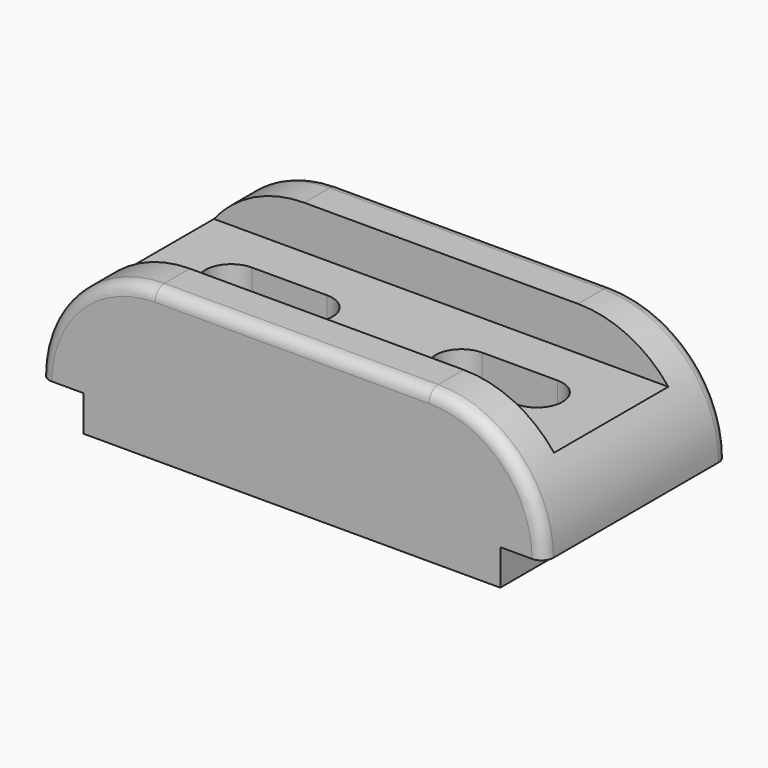
from build123d import *

# Parameters (mm, degrees)
F1_DEPTH = 58
F3_W     = 36
F3_H     = 11
F4_DEPTH = 138.501
F6_DEPTH = 27.001
F7_R     = 3


with BuildPart() as f1:
    # F0 (on Front) → F1 (new body)
    with BuildSketch(Plane.XZ):
        with BuildLine():
            Line((-52.5, 9), (-52.5, 0))
            Line((-52.5, 0), (52.5, 0))
            Line((52.5, 0), (52.5, 9))
            Line((52.5, 9), (63.5, 9))
            ThreePointArc((63.5, 9), (55.006097, 29.506097), (34.5, 38))
            Line((34.5, 38), (-34.5, 38))
            ThreePointArc((-34.5, 38), (-55.006097, 29.506097), (-63.5, 9))
            Line((-63.5, 9), (-52.5, 9))
        make_face()
    extrude(amount=F1_DEPTH)

    # F3 (on offset) → F4 (cut, through all)
    with BuildSketch(Plane.YZ.offset(75)):
        with Locations((-29, 32.5)):
            Rectangle(F3_W, F3_H)
    extrude(amount=-F4_DEPTH, mode=Mode.SUBTRACT)

    # F5 (on face) → F6 (cut, through all)
    with BuildSketch(Plane.XY.offset(27)):
        with BuildLine():
            Line((-19.5, -22.5), (-38.5, -22.5))
            ThreePointArc((-38.5, -22.5), (-45, -29), (-38.5, -35.5))
            Line((-38.5, -35.5), (-19.5, -35.5))
            ThreePointArc((-19.5, -35.5), (-13, -29), (-19.5, -22.5))
        make_face()
        with BuildLine():
            ThreePointArc((38.5, -35.5), (45, -29), (38.5, -22.5))
            Line((38.5, -22.5), (19.5, -22.5))
            ThreePointArc((19.5, -22.5), (13, -29), (19.5, -35.5))
            Line((19.5, -35.5), (38.5, -35.5))
        make_face()
    extrude(amount=-F6_DEPTH, mode=Mode.SUBTRACT)

    # F7
    f7_edges = [f1.edges().sort_by_distance(p)[0] for p in [
        (0, -58, 38),
        (0, 0, 38),
    ]]
    fillet(f7_edges, radius=F7_R)


solid = f1.part
